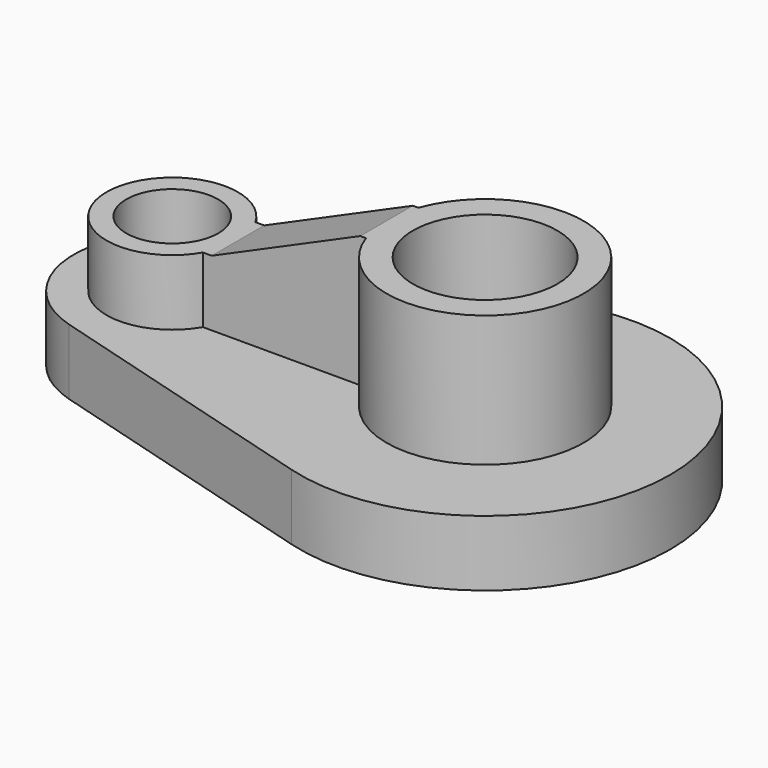
from build123d import *

# Parameters (mm, degrees)
PAD_DEPTH     = 10
SKETCH001_R   = 15
PAD001_DEPTH  = 30
SKETCH002_R   = 10
PAD002_DEPTH  = 20
SKETCH003_R   = 7
SKETCH003_R_2 = 11
POCKET_DEPTH  = 30.001
PAD003_DEPTH  = 5


with BuildPart() as part:
    # Sketch → Pad (new body)
    with BuildSketch(Plane.XY):
        with BuildLine():
            ThreePointArc((-13.297973, 14.4138), (-24.146408, -1e-06), (-13.297971, -14.4138))
            Line((30.687086, -27.081719), (-13.297971, -14.4138))
            ThreePointArc((30.687086, -27.081719), (66.669258, 1.3e-05), (30.687062, 27.081712))
            Line((-13.297973, 14.4138), (30.687062, 27.081712))
        make_face()
    extrude(amount=PAD_DEPTH)

    # Sketch001 → Pad001 (join)
    with BuildSketch(Plane.XY):
        with Locations((38.486743, 0)):
            Circle(SKETCH001_R)
    extrude(amount=PAD001_DEPTH)

    # Sketch002 → Pad002 (join)
    with BuildSketch(Plane.XY):
        with Locations((-9.146726, 0)):
            Circle(SKETCH002_R)
    extrude(amount=PAD002_DEPTH)

    # Sketch003 → Pocket (cut, through all)
    with BuildSketch(Plane.XY):
        with Locations((-9.146726, 0)):
            Circle(SKETCH003_R)
        with Locations((38.486743, 0)):
            Circle(SKETCH003_R_2)
    extrude(amount=POCKET_DEPTH, mode=Mode.SUBTRACT)

    # Sketch004 (on DatumPlane) → Pad003 (join, symmetric)
    with BuildSketch(Plane(origin=(6.731097, 0, 0.333333), x_dir=(-1, 0, 0), z_dir=(0, 1, 0))):
        Polygon((-16.755646, 29.666667), (5.877823, 19.666667), (7.877823, 19.666667), (7.877823, 9.666667), (-18.755646, 9.666667), (-18.755646, 29.666667), align=None)
    extrude(amount=PAD003_DEPTH, both=True)


solid = part.part
